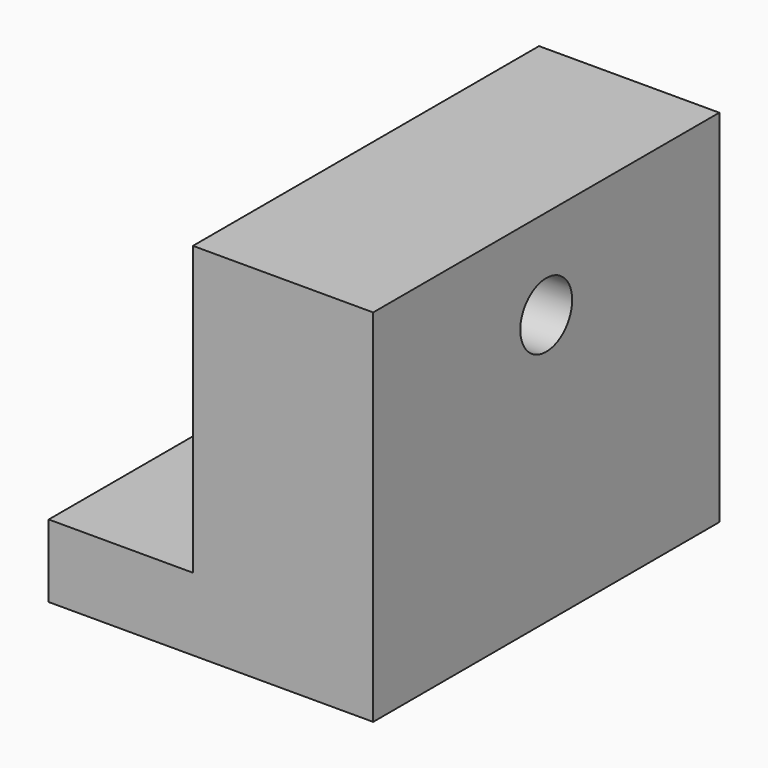
from build123d import *

# Parameters (mm, degrees)
F0_W     = 10
F0_H     = 10
F1_DEPTH = 24
F3_D     = 3.6
F4_DEPTH = 10
F5_W     = 24
F5_H     = 4.0339039266
F6_DEPTH = 6.5
F7_DEPTH = 1.5


with BuildPart() as f1:
    # F0 (on Front) → F1 (new body)
    with BuildSketch(Plane.XZ):
        Rectangle(F0_W, F0_H)
    extrude(amount=F1_DEPTH)

    # F3 (through all)
    with Locations(Plane(origin=(-5, 0, 0), x_dir=(0, -1, 0), z_dir=(-1, 0, 0))):
        with Locations((12, 0)):
            Hole(F3_D / 2)

    # F4 (add): a face of the model
    f4_faces = [f1.faces().sort_by_distance(p)[0] for p in [
        (0, -12, -5),
    ]]
    extrude(f4_faces, amount=F4_DEPTH)

    # F5 (on face) → F6 (join)
    with BuildSketch(Plane(origin=(-5, 0, 0), x_dir=(0, -1, 0), z_dir=(-1, 0, 0))):
        with Locations((12, -12.9830480367)):
            Rectangle(F5_W, F5_H)
    extrude(amount=F6_DEPTH)

    # F7 (add): a face of the model
    f7_faces = [f1.faces().sort_by_distance(p)[0] for p in [
        (-11.5, -12, -12.9830480367),
    ]]
    extrude(f7_faces, amount=F7_DEPTH)


solid = f1.part
